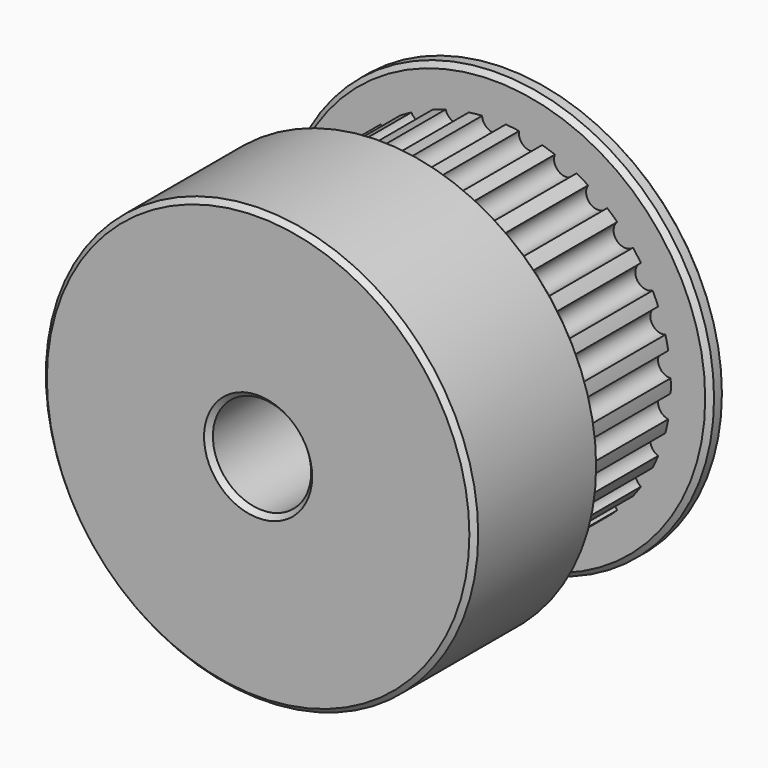
from build123d import *

# Parameters (mm, degrees)
F0_R     = 11
F1_DEPTH = 1
F2_R     = 9
F3_DEPTH = 7
F4_R     = 11
F5_DEPTH = 8
F6_R     = 0.6
F7_DEPTH = 7
F8_R     = 2.5
F9_DEPTH = 16.001
F10_SIZE = 0.25


with BuildPart() as f1:
    # F0 (on Front) → F1 (new body)
    with BuildSketch(Plane.XZ):
        Circle(F0_R)
    extrude(amount=F1_DEPTH)

    # F2 (on face) → F3 (join)
    with BuildSketch(Plane.XZ.offset(1)):
        Circle(F2_R)
    extrude(amount=F3_DEPTH)

    # F4 (on face) → F5 (join)
    with BuildSketch(Plane.XZ.offset(8)):
        Circle(F4_R)
    extrude(amount=F5_DEPTH)

    # F6 (on face) → F7 (cut, through all)
    with BuildSketch(Plane.XZ.offset(1)):
        with Locations((0, 9)):
            Circle(F6_R)
        with Locations((-1.871205, 8.803328)):
            Circle(F6_R)
        with Locations((-3.66063, 8.221909)):
            Circle(F6_R)
        with Locations((-5.290067, 7.281153)):
            Circle(F6_R)
        with Locations((-6.688303, 6.022175)):
            Circle(F6_R)
        with Locations((-7.794229, 4.5)):
            Circle(F6_R)
        with Locations((-8.559509, 2.781153)):
            Circle(F6_R)
        with Locations((-8.950697, 0.940756)):
            Circle(F6_R)
        with Locations((-8.950697, -0.940756)):
            Circle(F6_R)
        with Locations((-8.559509, -2.781153)):
            Circle(F6_R)
        with Locations((-7.794229, -4.5)):
            Circle(F6_R)
        with Locations((-6.688303, -6.022175)):
            Circle(F6_R)
        with Locations((-5.290067, -7.281153)):
            Circle(F6_R)
        with Locations((-3.66063, -8.221909)):
            Circle(F6_R)
        with Locations((-1.871205, -8.803328)):
            Circle(F6_R)
        with Locations((0, -9)):
            Circle(F6_R)
        with Locations((1.871205, -8.803328)):
            Circle(F6_R)
        with Locations((3.66063, -8.221909)):
            Circle(F6_R)
        with Locations((5.290067, -7.281153)):
            Circle(F6_R)
        with Locations((6.688303, -6.022175)):
            Circle(F6_R)
        with Locations((7.794229, -4.5)):
            Circle(F6_R)
        with Locations((8.559509, -2.781153)):
            Circle(F6_R)
        with Locations((8.950697, -0.940756)):
            Circle(F6_R)
        with Locations((8.950697, 0.940756)):
            Circle(F6_R)
        with Locations((8.559509, 2.781153)):
            Circle(F6_R)
        with Locations((7.794229, 4.5)):
            Circle(F6_R)
        with Locations((6.688303, 6.022175)):
            Circle(F6_R)
        with Locations((5.290067, 7.281153)):
            Circle(F6_R)
        with Locations((3.66063, 8.221909)):
            Circle(F6_R)
        with Locations((1.871205, 8.803328)):
            Circle(F6_R)
    extrude(amount=F7_DEPTH, mode=Mode.SUBTRACT)

    # F8 (on face) → F9 (cut, through all)
    with BuildSketch(Plane.XZ.offset(16)):
        Circle(F8_R)
    extrude(amount=-F9_DEPTH, mode=Mode.SUBTRACT)

    # F10
    f10_edges = [f1.edges().sort_by_distance(p)[0] for p in [
        (11, -12, 0),
        (-11, -8, 0),
        (-11, -16, 0),
        (11, -0.5, 0),
        (-11, 0, 0),
        (-11, -1, 0),
        (-2.5, -16, 0),
        (2.5, -8, 0),
        (-2.5, 0, 0),
    ]]
    chamfer(f10_edges, length=F10_SIZE)


solid = f1.part
